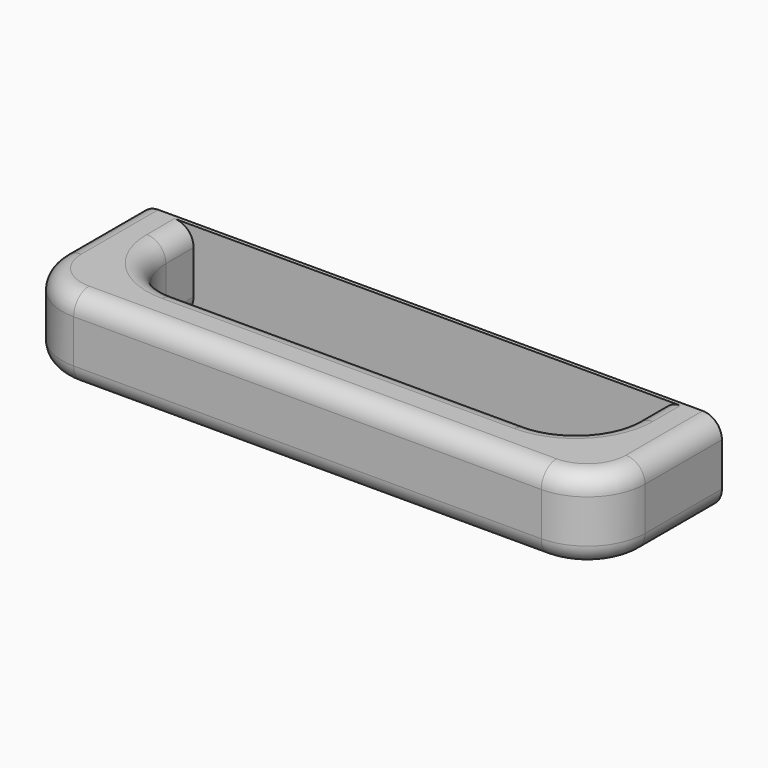
from build123d import *

# Parameters (mm, degrees)
SKETCH026_W     = 151.632409
SKETCH026_H     = 21.2714
PAD015_DEPTH    = 40
SKETCH027_W     = 121.632409
SKETCH027_H     = 24
POCKET011_DEPTH = 21.2724
FILLET018_R     = 15
FILLET019_R     = 5


with BuildPart() as part:
    # Sketch026 (on Face1 of CopyPocket010) → Pad015 (new body)
    with BuildSketch(Plane.XZ.offset(825)):
        with Locations((591.056032, -689.507206)):
            Rectangle(SKETCH026_W, SKETCH026_H)
    extrude(amount=PAD015_DEPTH)

    # Sketch027 (on Face4 of Pad015) → Pocket011 (cut, through all)
    with BuildSketch(Plane(origin=(0, 0, -678.871506), x_dir=(-1, 0, 0), z_dir=(0, 0, 1))):
        with Locations((-591.056032, 838)):
            Rectangle(SKETCH027_W, SKETCH027_H)
    extrude(amount=-POCKET011_DEPTH, mode=Mode.SUBTRACT)

    # Fillet018
    fillet018_edges = [part.edges().sort_by_distance(p)[0] for p in [
        (515.239828, -865, -689.507206),
        (666.872237, -865, -689.507206),
        (651.872237, -850, -689.507206),
        (530.239828, -850, -689.507206),
    ]]
    fillet(fillet018_edges, radius=FILLET018_R)

    # Fillet019
    fillet019_edges = [part.edges().sort_by_distance(p)[0] for p in [
        (591.056032, -850, -678.871506),
        (591.056032, -850, -700.142906),
        (591.056032, -865, -678.871506),
        (591.056032, -865, -700.142906),
    ]]
    fillet(fillet019_edges, radius=FILLET019_R)


solid = part.part
